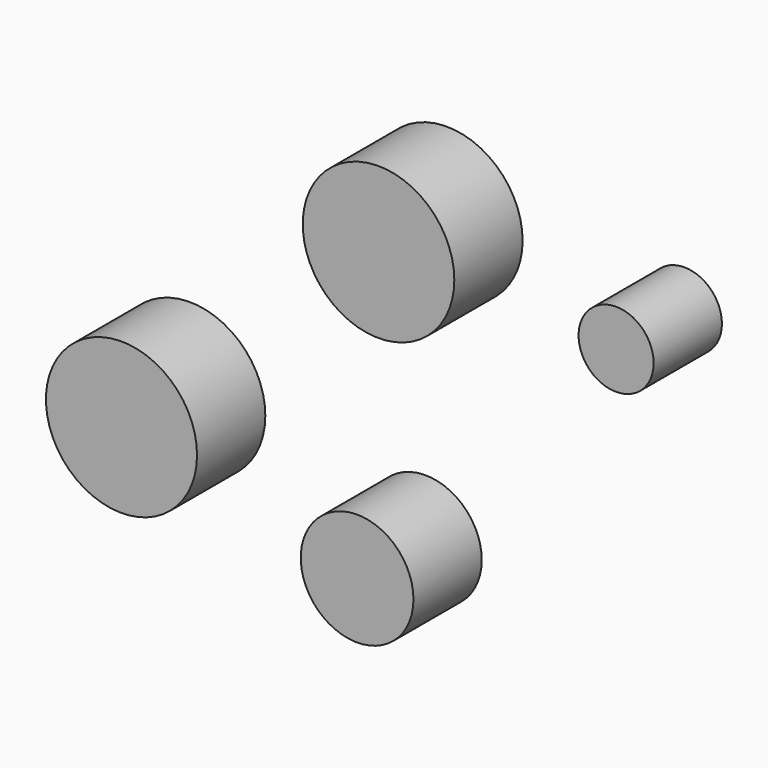
from build123d import *

# Parameters (mm, degrees)
F0_R     = 22.478337
F0_R_2   = 22.545824
F0_R_3   = 11.16632
F0_R_4   = 16.76224
F1_DEPTH = 25.4


with BuildPart() as f1:
    # F0 (on Front) → F1 (new body)
    with BuildSketch(Plane.XZ):
        with Locations((-139.780343, 4.117873)):
            Circle(F0_R)
        with Locations((-63.299492, 74.865624)):
            Circle(F0_R_2)
        with Locations((7.387355, 72.384849)):
            Circle(F0_R_3)
        with Locations((-69.672905, -12.725479)):
            Circle(F0_R_4)
    extrude(amount=F1_DEPTH)


solid = f1.part
